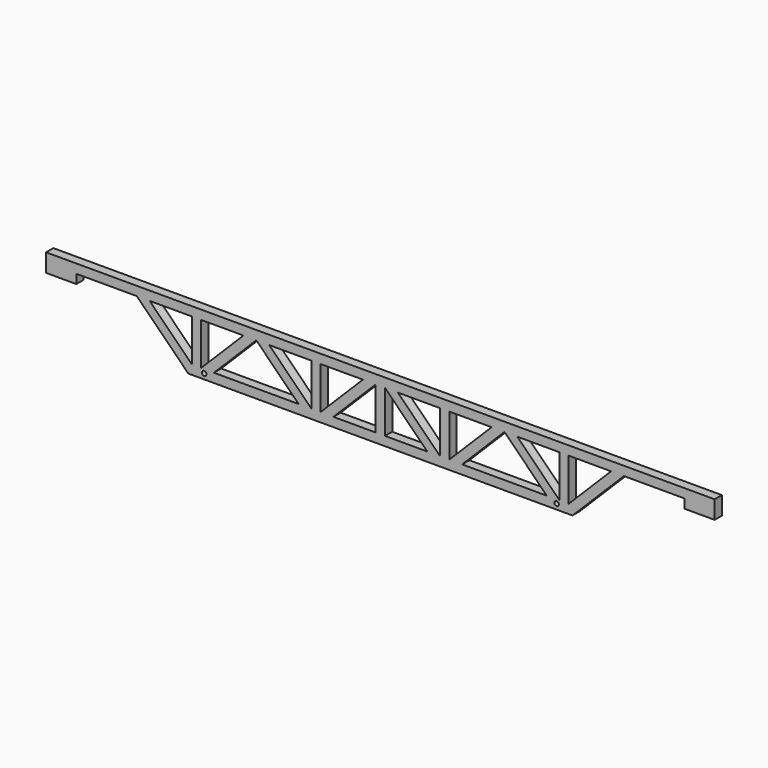
from build123d import *

# Parameters (mm, degrees)
F0_R     = 0.75
F1_DEPTH = 3


with BuildPart() as f1:
    # F0 (on Front) → F1 (new body)
    with BuildSketch(Plane.XZ):
        Polygon((-100.5, -3), (-100.5, 0), (-80.5, 0), (-63.5, -17), (0, -17), (63.5, -17), (80.5, 0), (100.5, 0), (100.5, -3), (110.5, -3), (110.5, 0), (110.5, 3), (0, 3), (-110.5, 3), (-110.5, 0), (-110.5, -3), align=None)
        with Locations((-58.25, -15.25)):
            Circle(F0_R, mode=Mode.SUBTRACT)
        with Locations((58.25, -15.25)):
            Circle(F0_R, mode=Mode.SUBTRACT)
        Polygon((-62.257359, -14), (-76.257359, 0), (-62.257359, 0), align=None, mode=Mode.SUBTRACT)
        Polygon((-45.257359, 0), (-59.257359, -14), (-59.257359, 0), align=None, mode=Mode.SUBTRACT)
        Polygon((-55.014719, -14), (-41.014719, 0), (-27.014719, -14), align=None, mode=Mode.SUBTRACT)
        Polygon((-22.772078, -14), (-36.772078, 0), (-22.772078, 0), align=None, mode=Mode.SUBTRACT)
        Polygon((-5.772078, 0), (-19.772078, -14), (-19.772078, 0), align=None, mode=Mode.SUBTRACT)
        Polygon((-1.529437, 0), (-1.529437, -14), (-15.529437, -14), align=None, mode=Mode.SUBTRACT)
        Polygon((1.529437, -14), (1.529437, 0), (15.529437, -14), align=None, mode=Mode.SUBTRACT)
        Polygon((19.772078, 0), (19.772078, -14), (5.772078, 0), align=None, mode=Mode.SUBTRACT)
        Polygon((36.772078, 0), (22.772078, -14), (22.772078, 0), align=None, mode=Mode.SUBTRACT)
        Polygon((27.014719, -14), (41.014719, 0), (55.014719, -14), align=None, mode=Mode.SUBTRACT)
        Polygon((45.257359, 0), (59.257359, 0), (59.257359, -14), align=None, mode=Mode.SUBTRACT)
        Polygon((62.257359, -14), (62.257359, 0), (76.257359, 0), align=None, mode=Mode.SUBTRACT)
    extrude(amount=F1_DEPTH)


solid = f1.part
